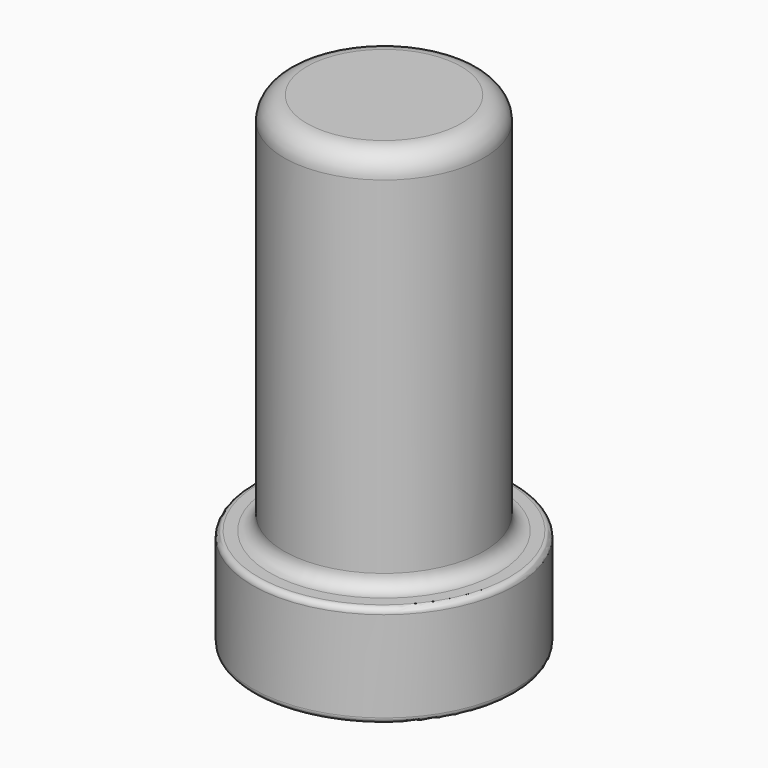
from build123d import *


with BuildPart() as f1:
    # F0 (on Front) → F1 (revolve)
    with BuildSketch(Plane.XZ):
        with BuildLine():
            Line((-11, -16.897214), (-11, 0))
            Line((-11, 0), (-11, 48.102786))
            ThreePointArc((-11, 48.102786), (-10.12132, 50.224107), (-8, 51.102786))
            Line((-8, 51.102786), (0, 51.102786))
            Line((0, 51.102786), (0, 67.102786))
            Line((0, 67.102786), (-13.5, 67.102786))
            ThreePointArc((-13.5, 67.102786), (-16.328427, 65.931213), (-17.5, 63.102786))
            Line((-17.5, 63.102786), (-17.5, 52.102786))
            Line((-17.5, 52.102786), (-17.5, 2.5))
            ThreePointArc((-17.5, 2.5), (-18.232233, 0.732233), (-20, 0))
            Line((-20, 0), (-22, 0))
            ThreePointArc((-22, 0), (-22.707107, -0.292893), (-23, -1))
            Line((-23, -1), (-23, -16.897214))
            ThreePointArc((-23, -16.897214), (-22.707107, -17.604321), (-22, -17.897214))
            Line((-22, -17.897214), (-12, -17.897214))
            ThreePointArc((-12, -17.897214), (-11.292893, -17.604321), (-11, -16.897214))
        make_face()
    revolve(axis=Axis((0, 0, 9.518242), (0, 0, -1)))


solid = f1.part
